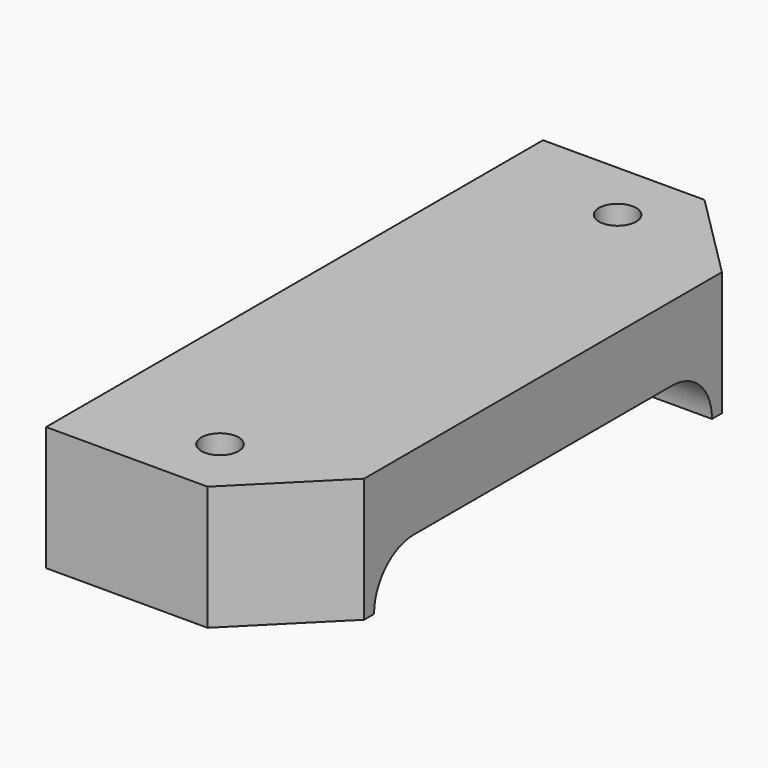
from build123d import *

# Parameters (mm, degrees)
F0_W     = 20
F0_H     = 50
F1_DEPTH = 10
F2_R     = 1.5
F3_DEPTH = 10.001
F5_DEPTH = 20.001
F7_DEPTH = 10.001


with BuildPart() as f1:
    # F0 (on Top) → F1 (new body)
    with BuildSketch(Plane.XY):
        with Locations((10, 25)):
            Rectangle(F0_W, F0_H)
    extrude(amount=F1_DEPTH)

    # F2 (on face) → F3 (cut, through all)
    with BuildSketch(Plane.XY.offset(10)):
        with Locations((10, 45)):
            Circle(F2_R)
        with Locations((10, 5)):
            Circle(F2_R)
    extrude(amount=-F3_DEPTH, mode=Mode.SUBTRACT)

    # F4 (on face) → F5 (cut, through all)
    with BuildSketch(Plane(origin=(0, 0, 0), x_dir=(0, -1, 0), z_dir=(-1, 0, 0))):
        with BuildLine():
            Line((-42, 0), (-8, 0))
            ThreePointArc((-8, 0), (-9.171573, 2.828427), (-12, 4))
            Line((-12, 4), (-38, 4))
            ThreePointArc((-38, 4), (-40.828427, 2.828427), (-42, 0))
        make_face()
    extrude(amount=-F5_DEPTH, mode=Mode.SUBTRACT)

    # F6 (on face) → F7 (cut, through all)
    with BuildSketch(Plane.XY.offset(10)):
        Polygon((13, 0), (20, 0), (20, 7), align=None)
        Polygon((13, 50), (20, 43), (20, 50), align=None)
    extrude(amount=-F7_DEPTH, mode=Mode.SUBTRACT)


solid = f1.part
